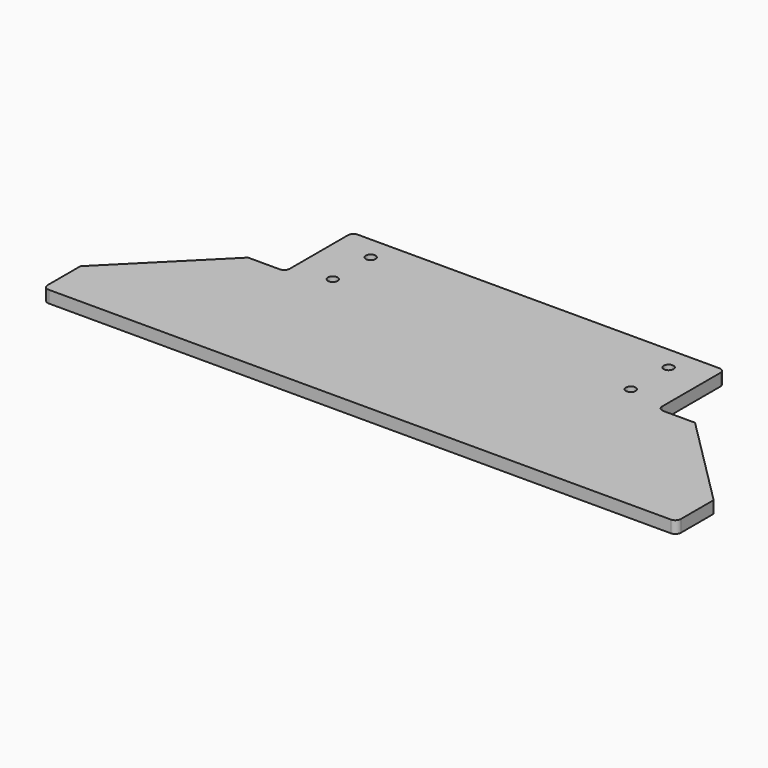
from build123d import *

# Parameters (mm, degrees)
F0_R     = 2.6
F1_DEPTH = 6.5024


with BuildPart() as f1:
    # F0 (on Top) → F1 (new body)
    with BuildSketch(Plane.XY):
        with BuildLine():
            Line((-103, 75), (-120, 75))
            Line((-120, 75), (-170, 25))
            Line((-170, 25), (-170, 3))
            ThreePointArc((-170, 3), (-169.12132, 0.87868), (-167, 0))
            Line((-167, 0), (0, 0))
            Line((0, 0), (167, 0))
            ThreePointArc((167, 0), (169.12132, 0.87868), (170, 3))
            Line((170, 3), (170, 25))
            Line((170, 25), (120, 75))
            Line((120, 75), (103, 75))
            ThreePointArc((103, 75), (100.87868, 75.87868), (100, 78))
            Line((100, 78), (100, 117))
            ThreePointArc((100, 117), (99.12132, 119.12132), (97, 120))
            Line((97, 120), (0, 120))
            Line((0, 120), (-97, 120))
            ThreePointArc((-97, 120), (-99.12132, 119.12132), (-100, 117))
            Line((-100, 117), (-100, 78))
            ThreePointArc((-100, 78), (-100.87868, 75.87868), (-103, 75))
        make_face()
        with Locations((-80, 81.9)):
            Circle(F0_R, mode=Mode.SUBTRACT)
        with Locations((-80, 107.3)):
            Circle(F0_R, mode=Mode.SUBTRACT)
        with Locations((80, 81.9)):
            Circle(F0_R, mode=Mode.SUBTRACT)
        with Locations((80, 107.3)):
            Circle(F0_R, mode=Mode.SUBTRACT)
    extrude(amount=F1_DEPTH)


solid = f1.part
